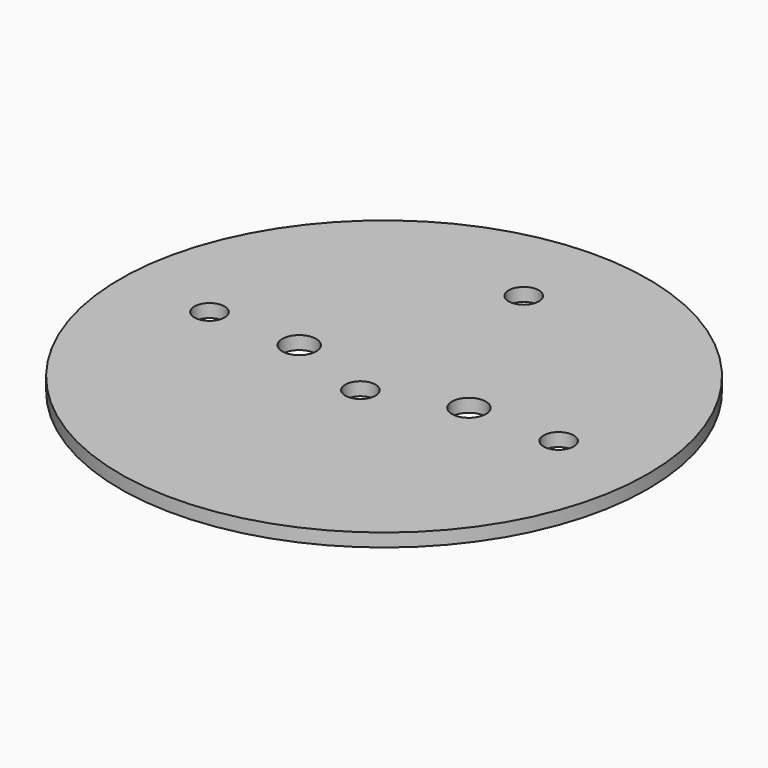
from build123d import *

# Parameters (mm, degrees)
SKETCH_R   = 14
SKETCH_R_2 = 0.9
SKETCH_R_3 = 0.8
PAD_DEPTH  = 0.7


with BuildPart() as part:
    # Sketch → Pad (new body)
    with BuildSketch(Plane.XY):
        Circle(SKETCH_R)
        with Locations((4.5, 0)):
            Circle(SKETCH_R_2, mode=Mode.SUBTRACT)
        with Locations((-4.5, 0)):
            Circle(SKETCH_R_2, mode=Mode.SUBTRACT)
        with Locations((0, -1.57)):
            Circle(SKETCH_R_3, mode=Mode.SUBTRACT)
        with Locations((-9.26, 0)):
            Circle(SKETCH_R_3, mode=Mode.SUBTRACT)
        with Locations((9.26, 0)):
            Circle(SKETCH_R_3, mode=Mode.SUBTRACT)
        with Locations((0, 9.26)):
            Circle(SKETCH_R_3, mode=Mode.SUBTRACT)
    extrude(amount=PAD_DEPTH)


solid = part.part
